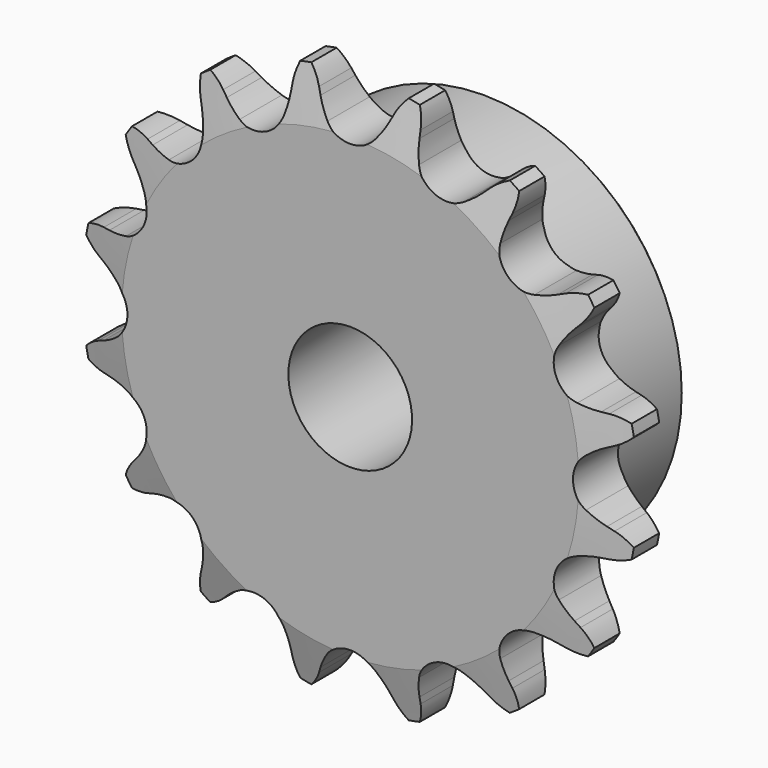
from build123d import *

# Parameters (mm, degrees)
F0_W     = 7.2136
F0_H     = 10.287
F0_H_2   = 17.4625
F0_W_2   = 15.0114
F2_R     = 1.5875
F3_SIZE  = 0.79375
F4_SIZE2 = 6.35
F4_SIZE  = 1.5748
F6_DEPTH = 22.226


with BuildPart() as f1:
    # F0 (on Right) → F1 (revolve)
    with BuildSketch(Plane.YZ):
        with Locations((3.6068, 30.5435)):
            Rectangle(F0_W, F0_H)
        with Locations((3.6068, 16.66875)):
            Rectangle(F0_W, F0_H_2)
        with Locations((14.7193, 16.66875)):
            Rectangle(F0_W_2, F0_H_2)
    revolve(axis=Axis((0, 11.1125, 0), (0, 1, 0)))

    # F2
    f2_edges = [f1.edges().sort_by_distance(p)[0] for p in [
        (0, 7.2136, -25.4),
    ]]
    fillet(f2_edges, radius=F2_R)

    # F3
    f3_edges = [f1.edges().sort_by_distance(p)[0] for p in [
        (0, 22.225, -25.4),
    ]]
    chamfer(f3_edges, length=F3_SIZE)

    # F4
    f4_edges = [f1.edges().sort_by_distance(p)[0] for p in [
        (0, 0, -35.687),
        (0, 7.2136, -35.687),
    ]]
    f4_side = f1.faces().sort_by_distance((0, 3.6068, -35.687))[0]
    chamfer(f4_edges, length=F4_SIZE, length2=F4_SIZE2, reference=f4_side)

    # F5 (on face) → F6 (intersect, through all)
    with BuildSketch(Plane.XZ):
        with BuildLine():
            Line((-4.4568878106, 32.3001493474), (-4.8164154778, 33.0982711732))
            ThreePointArc((-4.8164154778, 33.0982711732), (-5.7824590494, 34.6345413147), (-7.1308367855, 35.8491373836))
            ThreePointArc((-7.1308367855, 35.8491373836), (-7.9117695854, 34.2109951151), (-8.2163723379, 32.4219777052))
            Line((-8.2163723379, 32.4219777052), (-8.2431045912, 31.5470240041))
            ThreePointArc((-8.2431045912, 31.5470240041), (-8.3658592885, 30.2423390761), (-8.6522824488, 28.963576686))
            ThreePointArc((-8.6522824488, 28.963576686), (-10.9400391594, 26.4115909116), (-14.3622538898, 26.5984290744))
            ThreePointArc((-14.3622538898, 26.5984290744), (-15.4690072063, 27.300118873), (-16.4783594451, 28.135869754))
            Line((-16.4783594451, 28.135869754), (-17.115947698, 28.7356528917))
            ThreePointArc((-17.115947698, 28.7356528917), (-18.596360712, 29.7852925621), (-20.3069050971, 30.3914311902))
            ThreePointArc((-20.3069050971, 30.3914311902), (-20.4015030212, 28.5791350327), (-19.9982919468, 26.8097320375))
            Line((-19.9982919468, 26.8097320375), (-19.688159043, 25.9911502307))
            ThreePointArc((-19.688159043, 25.9911502307), (-19.3022882889, 24.7388023405), (-19.0775476037, 23.4477705432))
            ThreePointArc((-19.0775476037, 23.4477705432), (-20.2145565285, 20.2145565285), (-23.4477705432, 19.0775476037))
            ThreePointArc((-23.4477705432, 19.0775476037), (-24.7388023405, 19.3022882889), (-25.9911502307, 19.688159043))
            Line((-25.9911502307, 19.688159043), (-26.8097320375, 19.9982919468))
            ThreePointArc((-26.8097320375, 19.9982919468), (-28.5791350327, 20.4015030212), (-30.3914311902, 20.3069050971))
            ThreePointArc((-30.3914311902, 20.3069050971), (-29.7852925621, 18.596360712), (-28.7356528917, 17.115947698))
            Line((-28.7356528917, 17.115947698), (-28.135869754, 16.4783594451))
            ThreePointArc((-28.135869754, 16.4783594451), (-27.300118873, 15.4690072063), (-26.5984290744, 14.3622538898))
            ThreePointArc((-26.5984290744, 14.3622538898), (-26.4115909116, 10.9400391594), (-28.963576686, 8.6522824488))
            ThreePointArc((-28.963576686, 8.6522824488), (-30.2423390761, 8.3658592885), (-31.5470240041, 8.2431045912))
            Line((-31.5470240041, 8.2431045912), (-32.4219777052, 8.2163723379))
            ThreePointArc((-32.4219777052, 8.2163723379), (-34.2109951151, 7.9117695854), (-35.8491373836, 7.1308367855))
            ThreePointArc((-35.8491373836, 7.1308367855), (-34.6345413147, 5.7824590494), (-33.0982711732, 4.8164154778))
            Line((-33.0982711732, 4.8164154778), (-32.3001493474, 4.4568878106))
            ThreePointArc((-32.3001493474, 4.4568878106), (-31.1417538349, 3.8441959519), (-30.0699408338, 3.0902142758))
            ThreePointArc((-30.0699408338, 3.0902142758), (-28.5877, 0), (-30.0699408338, -3.0902142758))
            ThreePointArc((-30.0699408338, -3.0902142758), (-31.1417538349, -3.8441959519), (-32.3001493474, -4.4568878106))
            Line((-32.3001493474, -4.4568878106), (-33.0982711732, -4.8164154778))
            ThreePointArc((-33.0982711732, -4.8164154778), (-34.6345413147, -5.7824590494), (-35.8491373836, -7.1308367855))
            ThreePointArc((-35.8491373836, -7.1308367855), (-34.2109951151, -7.9117695854), (-32.4219777052, -8.2163723379))
            Line((-32.4219777052, -8.2163723379), (-31.5470240041, -8.2431045912))
            ThreePointArc((-31.5470240041, -8.2431045912), (-30.2423390761, -8.3658592885), (-28.963576686, -8.6522824488))
            ThreePointArc((-28.963576686, -8.6522824488), (-26.4115909116, -10.9400391594), (-26.5984290744, -14.3622538898))
            ThreePointArc((-26.5984290744, -14.3622538898), (-27.300118873, -15.4690072063), (-28.135869754, -16.4783594451))
            Line((-28.135869754, -16.4783594451), (-28.7356528917, -17.115947698))
            ThreePointArc((-28.7356528917, -17.115947698), (-29.7852925621, -18.596360712), (-30.3914311902, -20.3069050971))
            ThreePointArc((-30.3914311902, -20.3069050971), (-28.5791350327, -20.4015030212), (-26.8097320375, -19.9982919468))
            Line((-26.8097320375, -19.9982919468), (-25.9911502307, -19.688159043))
            ThreePointArc((-25.9911502307, -19.688159043), (-24.7388023405, -19.3022882889), (-23.4477705432, -19.0775476037))
            ThreePointArc((-23.4477705432, -19.0775476037), (-20.2145565285, -20.2145565285), (-19.0775476037, -23.4477705432))
            ThreePointArc((-19.0775476037, -23.4477705432), (-19.3022882889, -24.7388023405), (-19.688159043, -25.9911502307))
            Line((-19.688159043, -25.9911502307), (-19.9982919468, -26.8097320375))
            ThreePointArc((-19.9982919468, -26.8097320375), (-20.4015030212, -28.5791350327), (-20.3069050971, -30.3914311902))
            ThreePointArc((-20.3069050971, -30.3914311902), (-18.596360712, -29.7852925621), (-17.115947698, -28.7356528917))
            Line((-17.115947698, -28.7356528917), (-16.4783594451, -28.135869754))
            ThreePointArc((-16.4783594451, -28.135869754), (-15.4690072063, -27.300118873), (-14.3622538898, -26.5984290744))
            ThreePointArc((-14.3622538898, -26.5984290744), (-10.9400391594, -26.4115909116), (-8.6522824488, -28.963576686))
            ThreePointArc((-8.6522824488, -28.963576686), (-8.3658592885, -30.2423390761), (-8.2431045912, -31.5470240041))
            Line((-8.2431045912, -31.5470240041), (-8.2163723379, -32.4219777052))
            ThreePointArc((-8.2163723379, -32.4219777052), (-7.9117695854, -34.2109951151), (-7.1308367855, -35.8491373836))
            ThreePointArc((-7.1308367855, -35.8491373836), (-5.7824590494, -34.6345413147), (-4.8164154778, -33.0982711732))
            Line((-4.8164154778, -33.0982711732), (-4.4568878106, -32.3001493474))
            ThreePointArc((-4.4568878106, -32.3001493474), (-3.8441959519, -31.1417538349), (-3.0902142758, -30.0699408338))
            ThreePointArc((-3.0902142758, -30.0699408338), (0, -28.5877), (3.0902142758, -30.0699408338))
            ThreePointArc((3.0902142758, -30.0699408338), (3.8441959519, -31.1417538349), (4.4568878106, -32.3001493474))
            Line((4.4568878106, -32.3001493474), (4.8164154778, -33.0982711732))
            ThreePointArc((4.8164154778, -33.0982711732), (5.7824590494, -34.6345413147), (7.1308367855, -35.8491373836))
            ThreePointArc((7.1308367855, -35.8491373836), (7.9117695854, -34.2109951151), (8.2163723379, -32.4219777052))
            Line((8.2163723379, -32.4219777052), (8.2431045912, -31.5470240041))
            ThreePointArc((8.2431045912, -31.5470240041), (8.3658592885, -30.2423390761), (8.6522824488, -28.963576686))
            ThreePointArc((8.6522824488, -28.963576686), (10.9400391594, -26.4115909116), (14.3622538898, -26.5984290744))
            ThreePointArc((14.3622538898, -26.5984290744), (15.4690072063, -27.300118873), (16.4783594451, -28.135869754))
            Line((16.4783594451, -28.135869754), (17.115947698, -28.7356528917))
            ThreePointArc((17.115947698, -28.7356528917), (18.596360712, -29.7852925621), (20.3069050971, -30.3914311902))
            ThreePointArc((20.3069050971, -30.3914311902), (20.4015030212, -28.5791350327), (19.9982919468, -26.8097320375))
            Line((19.9982919468, -26.8097320375), (19.688159043, -25.9911502307))
            ThreePointArc((19.688159043, -25.9911502307), (19.3022882889, -24.7388023405), (19.0775476037, -23.4477705432))
            ThreePointArc((19.0775476037, -23.4477705432), (20.2145565285, -20.2145565285), (23.4477705432, -19.0775476037))
            ThreePointArc((23.4477705432, -19.0775476037), (24.7388023405, -19.3022882889), (25.9911502307, -19.688159043))
            Line((25.9911502307, -19.688159043), (26.8097320375, -19.9982919468))
            ThreePointArc((26.8097320375, -19.9982919468), (28.5791350327, -20.4015030212), (30.3914311902, -20.3069050971))
            ThreePointArc((30.3914311902, -20.3069050971), (29.7852925621, -18.596360712), (28.7356528917, -17.115947698))
            Line((28.7356528917, -17.115947698), (28.135869754, -16.4783594451))
            ThreePointArc((28.135869754, -16.4783594451), (27.300118873, -15.4690072063), (26.5984290744, -14.3622538898))
            ThreePointArc((26.5984290744, -14.3622538898), (26.4115909116, -10.9400391594), (28.963576686, -8.6522824488))
            ThreePointArc((28.963576686, -8.6522824488), (30.2423390761, -8.3658592885), (31.5470240041, -8.2431045912))
            Line((31.5470240041, -8.2431045912), (32.4219777052, -8.2163723379))
            ThreePointArc((32.4219777052, -8.2163723379), (34.2109951151, -7.9117695854), (35.8491373836, -7.1308367855))
            ThreePointArc((35.8491373836, -7.1308367855), (34.6345413147, -5.7824590494), (33.0982711732, -4.8164154778))
            Line((33.0982711732, -4.8164154778), (32.3001493474, -4.4568878106))
            ThreePointArc((32.3001493474, -4.4568878106), (31.1417538349, -3.8441959519), (30.0699408338, -3.0902142758))
            ThreePointArc((30.0699408338, -3.0902142758), (28.5877, 0), (30.0699408338, 3.0902142758))
            ThreePointArc((30.0699408338, 3.0902142758), (31.1417538349, 3.8441959519), (32.3001493474, 4.4568878106))
            Line((32.3001493474, 4.4568878106), (33.0982711732, 4.8164154778))
            ThreePointArc((33.0982711732, 4.8164154778), (34.6345413147, 5.7824590494), (35.8491373836, 7.1308367855))
            ThreePointArc((35.8491373836, 7.1308367855), (34.2109951151, 7.9117695854), (32.4219777052, 8.2163723379))
            Line((32.4219777052, 8.2163723379), (31.5470240041, 8.2431045912))
            ThreePointArc((31.5470240041, 8.2431045912), (30.2423390761, 8.3658592885), (28.963576686, 8.6522824488))
            ThreePointArc((28.963576686, 8.6522824488), (26.4115909116, 10.9400391594), (26.5984290744, 14.3622538898))
            ThreePointArc((26.5984290744, 14.3622538898), (27.300118873, 15.4690072063), (28.135869754, 16.4783594451))
            Line((28.135869754, 16.4783594451), (28.7356528917, 17.115947698))
            ThreePointArc((28.7356528917, 17.115947698), (29.7852925621, 18.596360712), (30.3914311902, 20.3069050971))
            ThreePointArc((30.3914311902, 20.3069050971), (28.5791350327, 20.4015030212), (26.8097320375, 19.9982919468))
            Line((26.8097320375, 19.9982919468), (25.9911502307, 19.688159043))
            ThreePointArc((25.9911502307, 19.688159043), (24.7388023405, 19.3022882889), (23.4477705432, 19.0775476037))
            ThreePointArc((23.4477705432, 19.0775476037), (20.2145565285, 20.2145565285), (19.0775476037, 23.4477705432))
            ThreePointArc((19.0775476037, 23.4477705432), (19.3022882889, 24.7388023405), (19.688159043, 25.9911502307))
            Line((19.688159043, 25.9911502307), (19.9982919468, 26.8097320375))
            ThreePointArc((19.9982919468, 26.8097320375), (20.4015030212, 28.5791350327), (20.3069050971, 30.3914311902))
            ThreePointArc((20.3069050971, 30.3914311902), (18.596360712, 29.7852925621), (17.115947698, 28.7356528917))
            Line((17.115947698, 28.7356528917), (16.4783594451, 28.135869754))
            ThreePointArc((16.4783594451, 28.135869754), (15.4690072063, 27.300118873), (14.3622538898, 26.5984290744))
            ThreePointArc((14.3622538898, 26.5984290744), (10.9400391594, 26.4115909116), (8.6522824488, 28.963576686))
            ThreePointArc((8.6522824488, 28.963576686), (8.3658592885, 30.2423390761), (8.2431045912, 31.5470240041))
            Line((8.2431045912, 31.5470240041), (8.2163723379, 32.4219777052))
            ThreePointArc((8.2163723379, 32.4219777052), (7.9117695854, 34.2109951151), (7.1308367855, 35.8491373836))
            ThreePointArc((7.1308367855, 35.8491373836), (5.7824590494, 34.6345413147), (4.8164154778, 33.0982711732))
            Line((4.8164154778, 33.0982711732), (4.4568878106, 32.3001493474))
            ThreePointArc((4.4568878106, 32.3001493474), (3.8441959519, 31.1417538349), (3.0902142758, 30.0699408338))
            ThreePointArc((3.0902142758, 30.0699408338), (0, 28.5877), (-3.0902142758, 30.0699408338))
            ThreePointArc((-3.0902142758, 30.0699408338), (-3.8441959519, 31.1417538349), (-4.4568878106, 32.3001493474))
        make_face()
    extrude(amount=-F6_DEPTH, mode=Mode.INTERSECT)


solid = f1.part
